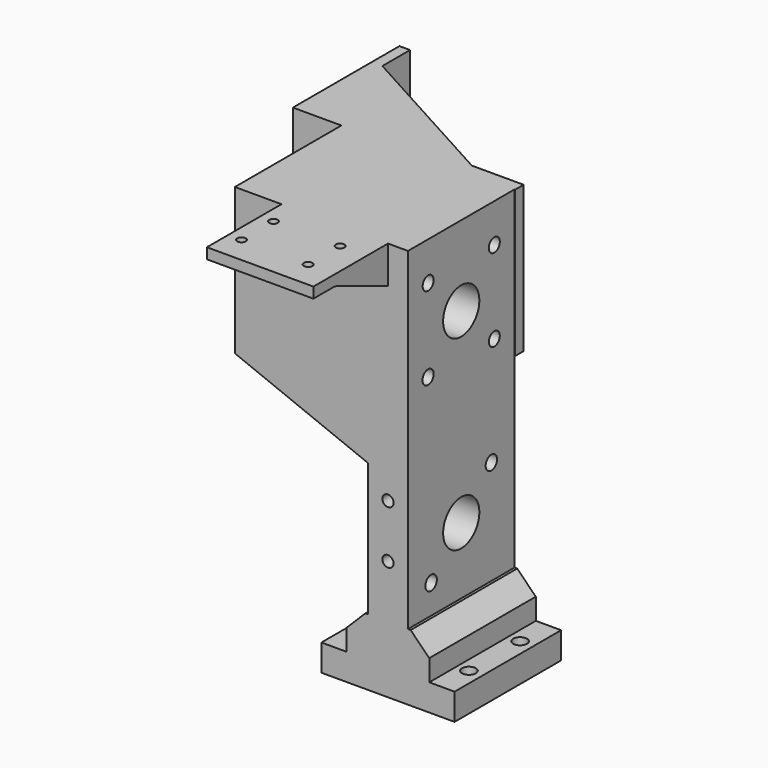
from build123d import *

# Parameters (mm, degrees)
SKETCH_W        = 50
SKETCH_H        = 50
PAD_DEPTH       = 10
SKETCH001_W     = 15
SKETCH001_H     = 50
PAD001_DEPTH    = 140
SKETCH004_R     = 2.6
POCKET002_DEPTH = 10
SKETCH005_R     = 8.5
SKETCH005_R_2   = 2.66237
SKETCH005_R_3   = 2.705532
POCKET_DEPTH    = 15
SKETCH006_W     = 50
SKETCH006_H     = 55
PAD002_DEPTH    = 50
SKETCH009_W     = 8
SKETCH009_H     = 50
PAD003_DEPTH    = 15
SKETCH010_R     = 8.5
POCKET003_DEPTH = 65
SKETCH011_R     = 18.1
POCKET004_DEPTH = 18
SKETCH012_R     = 2.570984
SKETCH012_R_2   = 2.587377
SKETCH012_R_3   = 2.575599
SKETCH012_R_4   = 2.613837
POCKET005_DEPTH = 65
CHAMFER_SIZE    = 7
CHAMFER001_SIZE = 7
SKETCH013_W     = 83.432911
SKETCH013_H     = 55
PAD004_DEPTH    = 4
SKETCH014_W     = 4
SKETCH014_H     = 55
PAD005_DEPTH    = 46
PAD006_DEPTH    = 4
PAD007_DEPTH    = 4
POCKET006_DEPTH = 5
SKETCH018_W     = 40
SKETCH018_H     = 35
PAD008_DEPTH    = 4
SKETCH019_R     = 1.6
POCKET007_DEPTH = 5
PAD009_DEPTH    = 3
PAD010_DEPTH    = 3
SKETCH022_R     = 2.1
POCKET008_DEPTH = 10
PAD011_DEPTH    = 50


with BuildPart() as part:
    # Sketch → Pad (new body)
    with BuildSketch(Plane.XY):
        with Locations((0, 25)):
            Rectangle(SKETCH_W, SKETCH_H)
    extrude(amount=PAD_DEPTH)

    # Sketch001 (on Face6 of Pad) → Pad001 (join)
    with BuildSketch(Plane.XY.offset(10)):
        with Locations((0, 25)):
            Rectangle(SKETCH001_W, SKETCH001_H)
    extrude(amount=PAD001_DEPTH)

    # Sketch004 → Pocket002 (cut)
    with BuildSketch(Plane(origin=(0, 0, 0), x_dir=(1, 0, 0), z_dir=(0, 0, -1))):
        with Locations((-20, -13)):
            Circle(SKETCH004_R)
        with Locations((20, -13)):
            Circle(SKETCH004_R)
        with Locations((-20, -37)):
            Circle(SKETCH004_R)
        with Locations((20, -37)):
            Circle(SKETCH004_R)
    extrude(amount=-POCKET002_DEPTH, mode=Mode.SUBTRACT)

    # Sketch005 (on Face14 of Pocket002) → Pocket (cut)
    with BuildSketch(Plane.YZ.offset(7.5)):
        with Locations((25, 50)):
            Circle(SKETCH005_R)
        with Locations((25, 120)):
            Circle(SKETCH005_R)
        with Locations((39.142136, 64.142136)):
            Circle(SKETCH005_R_2)
        with Locations((10.857864, 35.857864)):
            Circle(SKETCH005_R_3)
    extrude(amount=-POCKET_DEPTH, mode=Mode.SUBTRACT)

    # Sketch006 (on Face13 of Pocket) → Pad002 (join)
    with BuildSketch(Plane(origin=(-7.5, 0, 0), x_dir=(0, -1, 0), z_dir=(-1, 0, 0))):
        with Locations((-25, 122.5)):
            Rectangle(SKETCH006_W, SKETCH006_H)
    extrude(amount=PAD002_DEPTH)

    # Sketch009 → Pad003 (join)
    with BuildSketch(Plane.XY.offset(10)):
        with Locations((11.5, 25)):
            Rectangle(SKETCH009_W, SKETCH009_H)
        with Locations((-11.5, 25)):
            Rectangle(SKETCH009_W, SKETCH009_H)
    extrude(amount=PAD003_DEPTH)

    # Sketch010 (on Face34 of Pad003) → Pocket003 (cut)
    with BuildSketch(Plane.YZ.offset(-7.5)):
        with Locations((25, 120)):
            Circle(SKETCH010_R)
    extrude(amount=-POCKET003_DEPTH, mode=Mode.SUBTRACT)

    # Sketch011 (on DatumPlane) → Pocket004 (cut)
    with BuildSketch(Plane(origin=(-57.5, 0, 0), x_dir=(0, -1, 0), z_dir=(-1, 0, 0))):
        with Locations((-25, 120)):
            Circle(SKETCH011_R)
    extrude(amount=-POCKET004_DEPTH, mode=Mode.SUBTRACT)

    # Sketch012 (on DatumPlane) → Pocket005 (cut)
    with BuildSketch(Plane(origin=(-57.5, 0, 0), x_dir=(0, -1, 0), z_dir=(-1, 0, 0))):
        with Locations((-40.525694, 104.474306)):
            Circle(SKETCH012_R)
        with Locations((-40.524277, 135.524276)):
            Circle(SKETCH012_R_2)
        with Locations((-9.47356, 135.526441)):
            Circle(SKETCH012_R_3)
        with Locations((-9.442338, 104.444964)):
            Circle(SKETCH012_R_4)
    extrude(amount=-POCKET005_DEPTH, mode=Mode.SUBTRACT)

    # Chamfer
    chamfer_edges = [part.edges().sort_by_distance(p)[0] for p in [
        (15.5, 25, 25),
    ]]
    chamfer(chamfer_edges, length=CHAMFER_SIZE)

    # Chamfer001
    chamfer001_edges = [part.edges().sort_by_distance(p)[0] for p in [
        (-15.5, 25, 25),
    ]]
    chamfer(chamfer001_edges, length=CHAMFER001_SIZE)

    # Sketch013 (on DatumPlane) → Pad004 (join)
    with BuildSketch(Plane(origin=(0, 50, 0), x_dir=(-1, 0, 0), z_dir=(0, 1, 0))):
        with Locations((33.993362, 122.5)):
            Rectangle(SKETCH013_W, SKETCH013_H)
    extrude(amount=PAD004_DEPTH)

    # Sketch014 (on Face47 of Pad004) → Pad005 (join)
    with BuildSketch(Plane(origin=(0, 54, 0), x_dir=(-1, 0, 0), z_dir=(0, 1, 0))):
        with Locations((73.710442, 122.5)):
            Rectangle(SKETCH014_W, SKETCH014_H)
    extrude(amount=PAD005_DEPTH)

    # Sketch015 (on DatumPlane) → Pad006 (join)
    with BuildSketch(Plane.XY.offset(150)):
        Polygon((-71.717157, 54), (-11.717157, 54), (-71.717157, 87), align=None)
    extrude(amount=-PAD006_DEPTH)

    # Sketch016 (on DatumPlane) → Pad007 (join)
    with BuildSketch(Plane(origin=(0, 0, 95), x_dir=(1, 0, 0), z_dir=(0, 0, -1))):
        Polygon((-71.768631, -54), (-11.768631, -54), (-71.768631, -87), align=None)
    extrude(amount=-PAD007_DEPTH)

    # Sketch017 (on DatumPlane) → Pocket006 (cut)
    with BuildSketch(Plane(origin=(-75.710442, 0, 0), x_dir=(0, -1, 0), z_dir=(-1, 0, 0))):
        with BuildLine():
            ThreePointArc((-58.500315, 102.966849), (-56.900315, 104.566849), (-58.500315, 106.166849))
            Line((-58.500315, 106.166849), (-65.500315, 106.166849))
            ThreePointArc((-65.500315, 106.166849), (-67.100315, 104.566849), (-65.500315, 102.966849))
            Line((-65.500315, 102.966849), (-58.500315, 102.966849))
        make_face()
        with BuildLine():
            ThreePointArc((-89.5, 103.106524), (-87.9, 104.706524), (-89.5, 106.306524))
            Line((-89.5, 106.306524), (-96.5, 106.306524))
            ThreePointArc((-96.5, 106.306524), (-98.1, 104.706524), (-96.5, 103.106524))
            Line((-96.5, 103.106524), (-89.5, 103.106524))
        make_face()
        with BuildLine():
            ThreePointArc((-89.500832, 133.9), (-87.900832, 135.5), (-89.500832, 137.1))
            Line((-89.500832, 137.1), (-96.500832, 137.1))
            ThreePointArc((-96.500832, 137.1), (-98.100832, 135.5), (-96.500832, 133.9))
            Line((-96.500832, 133.9), (-89.500832, 133.9))
        make_face()
        with BuildLine():
            ThreePointArc((-58.500832, 133.9), (-56.900832, 135.5), (-58.500832, 137.1))
            Line((-58.500832, 137.1), (-65.500832, 137.1))
            ThreePointArc((-65.500832, 137.1), (-67.100832, 135.5), (-65.500832, 133.9))
            Line((-65.500832, 133.9), (-58.500832, 133.9))
        make_face()
        with BuildLine():
            ThreePointArc((-69.87661, 109), (-58.87661, 120), (-69.87661, 131))
            Line((-69.87661, 131), (-83.87661, 131))
            ThreePointArc((-83.87661, 131), (-94.87661, 120), (-83.87661, 109))
            Line((-83.87661, 109), (-69.87661, 109))
        make_face()
    extrude(amount=-POCKET006_DEPTH, mode=Mode.SUBTRACT)

    # Sketch018 (on DatumPlane) → Pad008 (join)
    with BuildSketch(Plane.XY.offset(150)):
        with Locations((-20, -17.5)):
            Rectangle(SKETCH018_W, SKETCH018_H)
    extrude(amount=-PAD008_DEPTH)

    # Sketch019 (on DatumPlane) → Pocket007 (cut)
    with BuildSketch(Plane.XY.offset(150)):
        with Locations((-10, -10)):
            Circle(SKETCH019_R)
        with Locations((-10, -25)):
            Circle(SKETCH019_R)
        with Locations((-35, -10)):
            Circle(SKETCH019_R)
        with Locations((-35, -25)):
            Circle(SKETCH019_R)
    extrude(amount=-POCKET007_DEPTH, mode=Mode.SUBTRACT)

    # Sketch020 (on DatumPlane) → Pad009 (join)
    with BuildSketch(Plane.YZ):
        Polygon((0, 146.040518), (-25, 146.040518), (0, 136.040518), align=None)
    extrude(amount=-PAD009_DEPTH)

    # Sketch021 (on DatumPlane) → Pad010 (join)
    with BuildSketch(Plane(origin=(-40, 0, 0), x_dir=(0, -1, 0), z_dir=(-1, 0, 0))):
        Polygon((0, 146), (25, 146), (0, 136), align=None)
    extrude(amount=-PAD010_DEPTH)

    # Sketch022 (on Face6 of Pocket006) → Pocket008 (cut)
    with BuildSketch(Plane.XZ):
        with Locations((0, 44.95862)):
            Circle(SKETCH022_R)
        with Locations((0, 64.95862)):
            Circle(SKETCH022_R)
    extrude(amount=-POCKET008_DEPTH, mode=Mode.SUBTRACT)

    # Sketch023 (on DatumPlane) → Pad011 (join)
    with BuildSketch(Plane.XZ):
        Polygon((-7.495659, 95), (-7.495659, 75), (-57.495659, 95), align=None)
    extrude(amount=-PAD011_DEPTH)


solid = part.part
